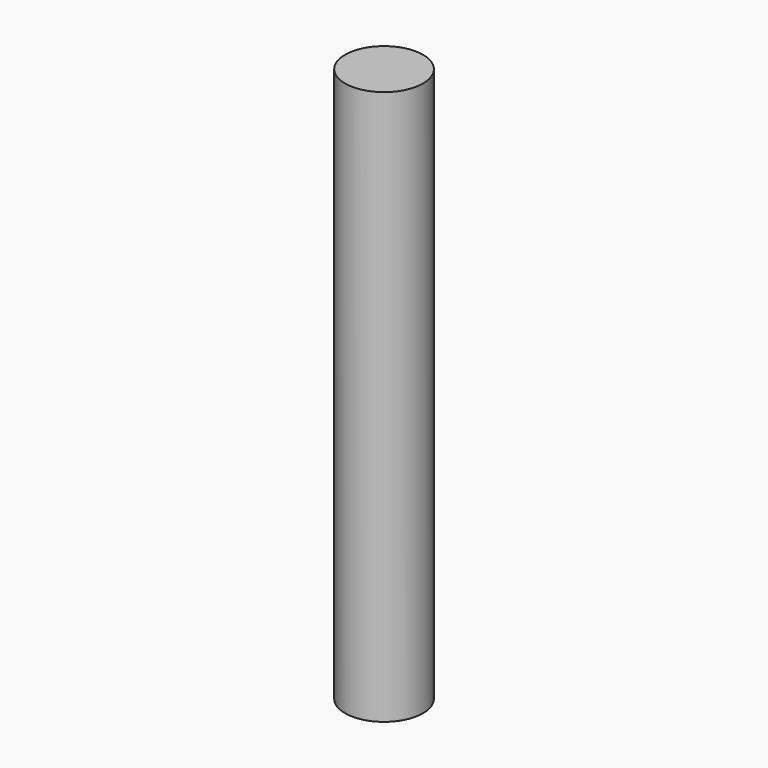
from build123d import *

# Parameters (mm, degrees)
CYLINDER_R     = 1.0541
CYLINDER_DEPTH = 15


with BuildPart() as part:
    # Cylinder → Cylinder (new body)
    with BuildSketch(Plane.XY.offset(-2.5)):
        Circle(CYLINDER_R)
    extrude(amount=CYLINDER_DEPTH)


solid = part.part
